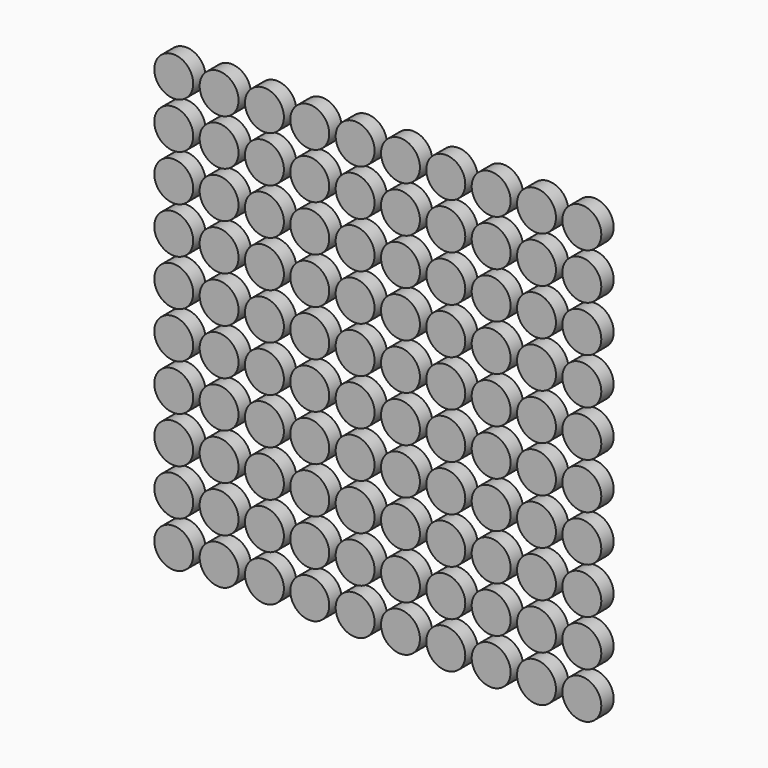
from build123d import *

# Parameters (mm, degrees)
F0_R     = 31.934157
F1_DEPTH = 25.4


with BuildPart() as f1:
    # F0 (on Front) → F1 (new body)
    with BuildSketch(Plane.XZ):
        with Locations((-124.640055, -78.12497)):
            Circle(F0_R)
        with Locations((-124.640055, -2.43297)):
            Circle(F0_R)
        with Locations((-124.640055, 73.25903)):
            Circle(F0_R)
        with Locations((-124.640055, 148.95103)):
            Circle(F0_R)
        with Locations((-124.640055, 224.64303)):
            Circle(F0_R)
        with Locations((-124.640055, 300.33503)):
            Circle(F0_R)
        with Locations((-124.640055, 376.02703)):
            Circle(F0_R)
        with Locations((-124.640055, 451.71903)):
            Circle(F0_R)
        with Locations((-124.640055, 527.41103)):
            Circle(F0_R)
        with Locations((-124.640055, 603.10303)):
            Circle(F0_R)
        with Locations((-50.218055, -78.12497)):
            Circle(F0_R)
        with Locations((-50.218055, -2.43297)):
            Circle(F0_R)
        with Locations((-50.218055, 73.25903)):
            Circle(F0_R)
        with Locations((-50.218055, 148.95103)):
            Circle(F0_R)
        with Locations((-50.218055, 224.64303)):
            Circle(F0_R)
        with Locations((-50.218055, 300.33503)):
            Circle(F0_R)
        with Locations((-50.218055, 376.02703)):
            Circle(F0_R)
        with Locations((-50.218055, 451.71903)):
            Circle(F0_R)
        with Locations((-50.218055, 527.41103)):
            Circle(F0_R)
        with Locations((-50.218055, 603.10303)):
            Circle(F0_R)
        with Locations((24.203945, -78.12497)):
            Circle(F0_R)
        with Locations((24.203945, -2.43297)):
            Circle(F0_R)
        with Locations((24.203945, 73.25903)):
            Circle(F0_R)
        with Locations((24.203945, 148.95103)):
            Circle(F0_R)
        with Locations((24.203945, 224.64303)):
            Circle(F0_R)
        with Locations((24.203945, 300.33503)):
            Circle(F0_R)
        with Locations((24.203945, 376.02703)):
            Circle(F0_R)
        with Locations((24.203945, 451.71903)):
            Circle(F0_R)
        with Locations((24.203945, 527.41103)):
            Circle(F0_R)
        with Locations((24.203945, 603.10303)):
            Circle(F0_R)
        with Locations((98.625945, -78.12497)):
            Circle(F0_R)
        with Locations((98.625945, -2.43297)):
            Circle(F0_R)
        with Locations((98.625945, 73.25903)):
            Circle(F0_R)
        with Locations((98.625945, 148.95103)):
            Circle(F0_R)
        with Locations((98.625945, 224.64303)):
            Circle(F0_R)
        with Locations((98.625945, 300.33503)):
            Circle(F0_R)
        with Locations((98.625945, 376.02703)):
            Circle(F0_R)
        with Locations((98.625945, 451.71903)):
            Circle(F0_R)
        with Locations((98.625945, 527.41103)):
            Circle(F0_R)
        with Locations((98.625945, 603.10303)):
            Circle(F0_R)
        with Locations((173.047945, -78.12497)):
            Circle(F0_R)
        with Locations((173.047945, -2.43297)):
            Circle(F0_R)
        with Locations((173.047945, 73.25903)):
            Circle(F0_R)
        with Locations((173.047945, 148.95103)):
            Circle(F0_R)
        with Locations((173.047945, 224.64303)):
            Circle(F0_R)
        with Locations((173.047945, 300.33503)):
            Circle(F0_R)
        with Locations((173.047945, 376.02703)):
            Circle(F0_R)
        with Locations((173.047945, 451.71903)):
            Circle(F0_R)
        with Locations((173.047945, 527.41103)):
            Circle(F0_R)
        with Locations((173.047945, 603.10303)):
            Circle(F0_R)
        with Locations((247.469945, -78.12497)):
            Circle(F0_R)
        with Locations((247.469945, -2.43297)):
            Circle(F0_R)
        with Locations((247.469945, 73.25903)):
            Circle(F0_R)
        with Locations((247.469945, 148.95103)):
            Circle(F0_R)
        with Locations((247.469945, 224.64303)):
            Circle(F0_R)
        with Locations((247.469945, 300.33503)):
            Circle(F0_R)
        with Locations((247.469945, 376.02703)):
            Circle(F0_R)
        with Locations((247.469945, 451.71903)):
            Circle(F0_R)
        with Locations((247.469945, 527.41103)):
            Circle(F0_R)
        with Locations((247.469945, 603.10303)):
            Circle(F0_R)
        with Locations((321.891945, -78.12497)):
            Circle(F0_R)
        with Locations((321.891945, -2.43297)):
            Circle(F0_R)
        with Locations((321.891945, 73.25903)):
            Circle(F0_R)
        with Locations((321.891945, 148.95103)):
            Circle(F0_R)
        with Locations((321.891945, 224.64303)):
            Circle(F0_R)
        with Locations((321.891945, 300.33503)):
            Circle(F0_R)
        with Locations((321.891945, 376.02703)):
            Circle(F0_R)
        with Locations((321.891945, 451.71903)):
            Circle(F0_R)
        with Locations((321.891945, 527.41103)):
            Circle(F0_R)
        with Locations((321.891945, 603.10303)):
            Circle(F0_R)
        with Locations((396.313945, -78.12497)):
            Circle(F0_R)
        with Locations((396.313945, -2.43297)):
            Circle(F0_R)
        with Locations((396.313945, 73.25903)):
            Circle(F0_R)
        with Locations((396.313945, 148.95103)):
            Circle(F0_R)
        with Locations((396.313945, 224.64303)):
            Circle(F0_R)
        with Locations((396.313945, 300.33503)):
            Circle(F0_R)
        with Locations((396.313945, 376.02703)):
            Circle(F0_R)
        with Locations((396.313945, 451.71903)):
            Circle(F0_R)
        with Locations((396.313945, 527.41103)):
            Circle(F0_R)
        with Locations((396.313945, 603.10303)):
            Circle(F0_R)
        with Locations((470.735945, -78.12497)):
            Circle(F0_R)
        with Locations((470.735945, -2.43297)):
            Circle(F0_R)
        with Locations((470.735945, 73.25903)):
            Circle(F0_R)
        with Locations((470.735945, 148.95103)):
            Circle(F0_R)
        with Locations((470.735945, 224.64303)):
            Circle(F0_R)
        with Locations((470.735945, 300.33503)):
            Circle(F0_R)
        with Locations((470.735945, 376.02703)):
            Circle(F0_R)
        with Locations((470.735945, 451.71903)):
            Circle(F0_R)
        with Locations((470.735945, 527.41103)):
            Circle(F0_R)
        with Locations((470.735945, 603.10303)):
            Circle(F0_R)
        with Locations((545.157945, -78.12497)):
            Circle(F0_R)
        with Locations((545.157945, -2.43297)):
            Circle(F0_R)
        with Locations((545.157945, 73.25903)):
            Circle(F0_R)
        with Locations((545.157945, 148.95103)):
            Circle(F0_R)
        with Locations((545.157945, 224.64303)):
            Circle(F0_R)
        with Locations((545.157945, 300.33503)):
            Circle(F0_R)
        with Locations((545.157945, 376.02703)):
            Circle(F0_R)
        with Locations((545.157945, 451.71903)):
            Circle(F0_R)
        with Locations((545.157945, 527.41103)):
            Circle(F0_R)
        with Locations((545.157945, 603.10303)):
            Circle(F0_R)
    extrude(amount=F1_DEPTH)


solid = f1.part
